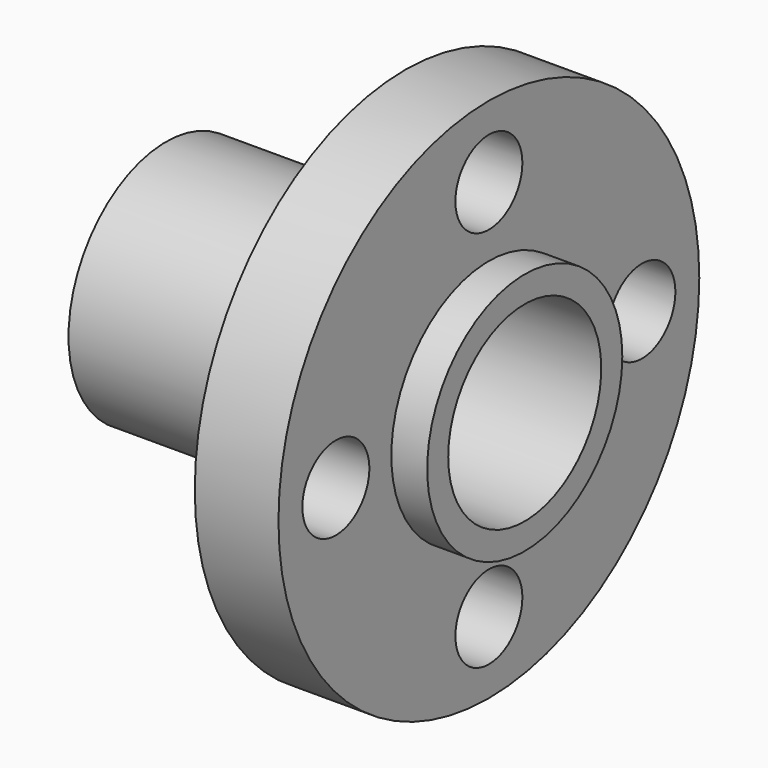
from build123d import *

# Parameters (mm, degrees)
SKETCH151_R             = 4
SKETCH151_R_2           = 1.75
POCKET057_DEPTH         = 84.080664
POLARPATTERN010_COUNT   = 4
BODY110_PLACEMENT_ANGLE = 90


with BuildPart() as part:
    # Sketch150 → Revolution007 (revolve)
    with BuildSketch(Plane.YZ):
        Polygon((0, 0), (0, 15), (5.1, 15), (5.1, 13.5), (11, 13.5), (11, 10), (5.1, 10), (5.1, 0), align=None)
    revolve(axis=Axis((0, 0, 0), (0, 0, 1)))

    # Sketch151 (on Face1 of Revolution007) → Pocket057 (cut, through all)
    with BuildSketch(Plane(origin=(0, 0, 15), x_dir=(0, -1, 0), z_dir=(0, 0, 1))):
        Circle(SKETCH151_R)
        with Locations((8, 0)):
            Circle(SKETCH151_R_2)
    pocket057 = extrude(amount=-POCKET057_DEPTH, mode=Mode.SUBTRACT)

    # PolarPattern010: Pocket057 ×4 about axis
    polarpattern010_axis = Axis((0, 0, 15), (0, 0, 1))
    for i in range(1, POLARPATTERN010_COUNT):
        add(pocket057.rotate(polarpattern010_axis, i * 360 / POLARPATTERN010_COUNT), mode=Mode.SUBTRACT)


with BuildPart() as part_1:
    # Body110 placement: moved
    add(part.part.moved(Location((-41, 224.5, 177))).rotate(Axis((-41, 224.5, 177), (0, 1, 0)), BODY110_PLACEMENT_ANGLE))


solid = part_1.part
